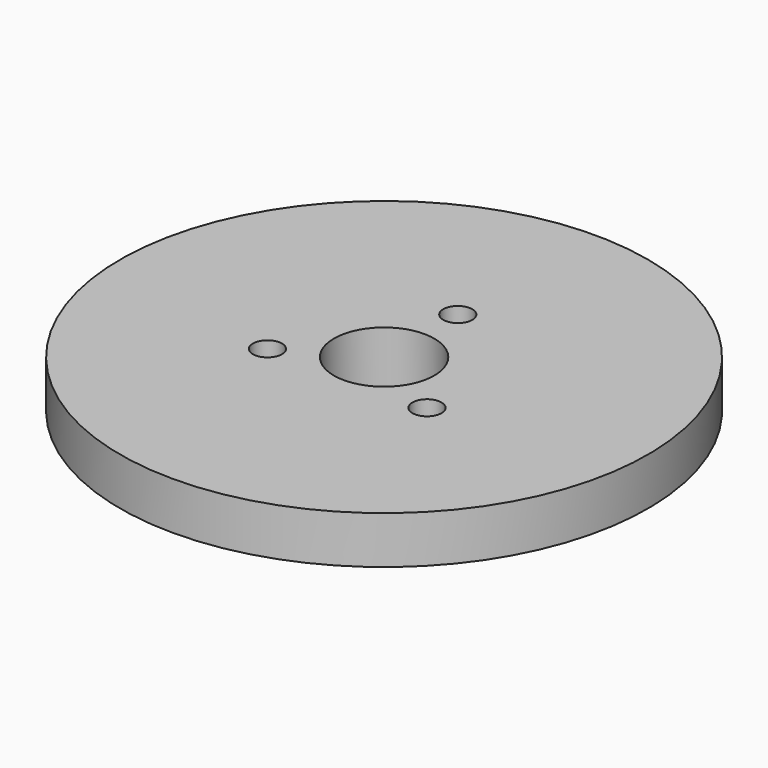
from build123d import *

# Parameters (mm, degrees)
F3_D = 19
F5_D = 5.5


with BuildPart() as f1:
    # F0 (on Right) → F1 (revolve)
    with BuildSketch(Plane.YZ):
        Polygon((-6, -18), (-6, 0), (-50, 0), (-50, -9), (-12, -9), (-12, -18), align=None)
    revolve(axis=Axis((0, 0, -9.1057028621), (0, 0, -1)))

    # F3 (through all)
    with Locations(Plane.XY):
        with Locations((0, 0)):
            Hole(F3_D / 2)

    # F5 (through all)
    with Locations(Plane.XY):
        with Locations((-15.112143296, -8.725), (0, 17.45), (15.112143296, -8.725)):
            Hole(F5_D / 2)


solid = f1.part
